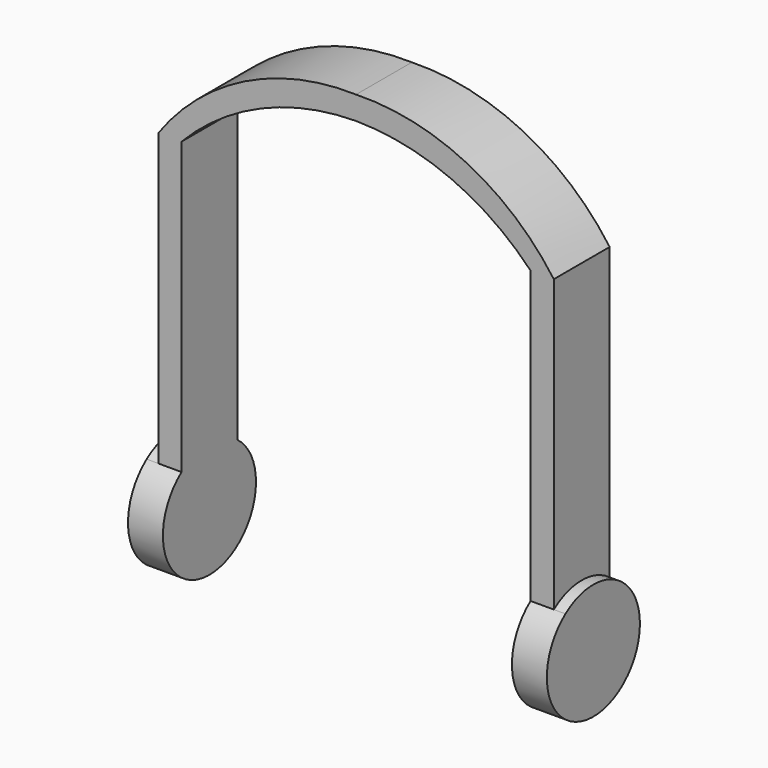
from build123d import *

# Parameters (mm, degrees)
F1_DEPTH = 30
F2_DEPTH = 20
F3_W     = 61.814844
F3_H     = 59.7312
F4_DEPTH = 50
F6_DEPTH = 60


with BuildPart() as f1:
    # F0 (on Right) → F1 (new body)
    with BuildSketch(Plane.YZ):
        with BuildLine():
            ThreePointArc((50, -145), (44.72136, -122.63932), (30, -105))
            ThreePointArc((30, -105), (0, -95), (-30, -105))
            ThreePointArc((-30, -105), (-22.36068, -189.72136), (50, -145))
        make_face()
    extrude(amount=F1_DEPTH)

    # F0 (on Right) → F2 (join)
    with BuildSketch(Plane.YZ):
        with BuildLine():
            Line((30, -105), (30, 145))
            Line((30, 145), (-30, 145))
            Line((-30, 145), (-30, -105))
            ThreePointArc((-30, -105), (0, -95), (30, -105))
        make_face()
        with BuildLine():
            ThreePointArc((50, -145), (44.72136, -122.63932), (30, -105))
            ThreePointArc((30, -105), (0, -95), (-30, -105))
            ThreePointArc((-30, -105), (-22.36068, -189.72136), (50, -145))
        make_face()
    extrude(amount=F2_DEPTH)

    # F3 (on Front) → F4 (cut, symmetric)
    with BuildSketch(Plane.XZ):
        with Locations((-90.155922, 117.482759)):
            Rectangle(F3_W, F3_H)
    extrude(amount=F4_DEPTH, both=True, mode=Mode.SUBTRACT)

    # F5 (on face) → F6 (join)
    with BuildSketch(Plane(origin=(0, 30, 0), x_dir=(-1, 0, 0), z_dir=(0, 1, 0))):
        with BuildLine():
            ThreePointArc((0, 145), (68.472419, 192.411567), (150, 209.428685))
            Line((150, 209.428685), (150, 229.428685))
            ThreePointArc((150, 229.428685), (54.480666, 208.395375), (-20, 145))
            Line((-20, 145), (0, 145))
        make_face()
    extrude(amount=-F6_DEPTH)

    # F7: F1 across face


with BuildPart() as f1_1:
    add(f1.part)
    add(f1.part.mirror(Plane(origin=(-150, 0, 219.428685), x_dir=(0, -1, 0), z_dir=(-1, 0, 0))))


solid = f1_1.part
